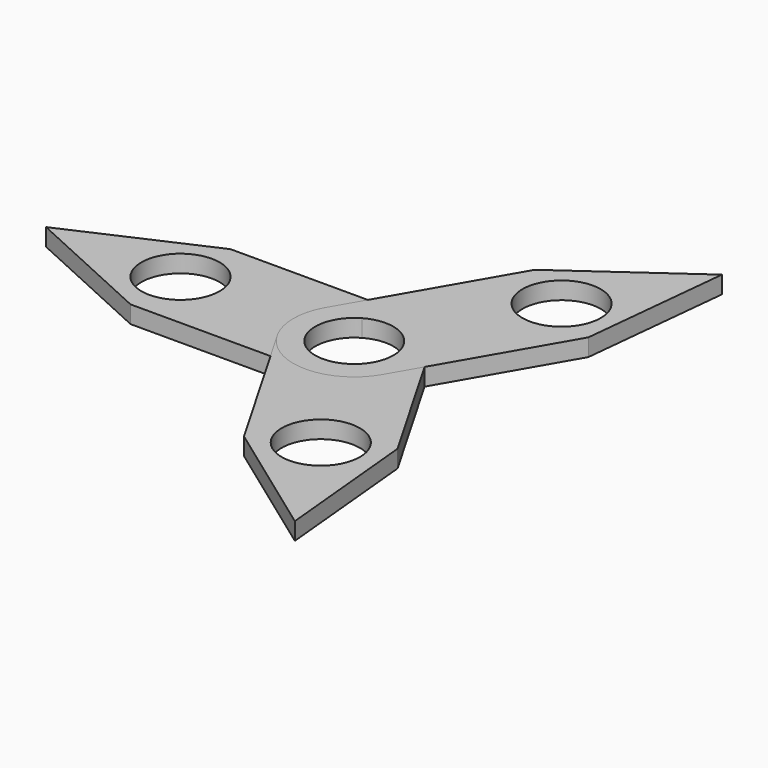
from build123d import *

# Parameters (mm, degrees)
F0_R     = 57.15
F2_DEPTH = 25.4
F3_COUNT = 3


with BuildPart() as f2:
    # F0 (on Top) → F2 (new body)
    with BuildSketch(Plane.XY):
        with BuildLine():
            ThreePointArc((228.2312558839, -88.8799019657), (141.2215009915, 0), (228.2312558839, 88.8799019657))
            Line((228.2312558839, 88.8799019657), (-21.988253901, 88.8799019657))
            ThreePointArc((-21.988253901, 88.8799019657), (65.0215009915, 0), (-21.9882539009, -88.8799019657))
            Line((-21.9882539009, -88.8799019657), (228.2312558839, -88.8799019657))
        make_face()
        with BuildLine():
            ThreePointArc((-21.9882539009, -88.8799019657), (65.0215009915, 0), (-21.988253901, 88.8799019657))
            Line((-21.988253901, 88.8799019657), (-220.2478200197, 0))
            Line((-220.2478200197, 0), (-25.7687441161, -88.8799019657))
            Line((-25.7687441161, -88.8799019657), (-21.9882539009, -88.8799019657))
        make_face()
        with Locations((-23.8784990085, 0)):
            Circle(F0_R, mode=Mode.SUBTRACT)
        with BuildLine():
            ThreePointArc((232.0117460991, -88.8799019657), (293.6480812161, -62.1898995414), (319.0215009915, 0))
            ThreePointArc((319.0215009915, 0), (293.6480812161, 62.1898995414), (232.011746099, 88.8799019657))
            Line((232.011746099, 88.8799019657), (228.2312558839, 88.8799019657))
            ThreePointArc((228.2312558839, 88.8799019657), (141.2215009915, 0), (228.2312558839, -88.8799019657))
            Line((228.2312558839, -88.8799019657), (232.0117460991, -88.8799019657))
        make_face()
        with Locations((230.1215009915, 0)):
            Circle(F0_R, mode=Mode.SUBTRACT)
    extrude(amount=F2_DEPTH)


with BuildPart() as f3_1:
    # F3: instance of F2
    add(f2.part.rotate(Axis((229.9788296223, 0, 35.2649986744), (0, 0, 1)), 1 * 360 / F3_COUNT))


with BuildPart() as f3_2:
    # F3: instance of F2
    add(f2.part.rotate(Axis((229.9788296223, 0, 35.2649986744), (0, 0, 1)), 2 * 360 / F3_COUNT))


solid = Compound([f2.part, f3_1.part, f3_2.part])
